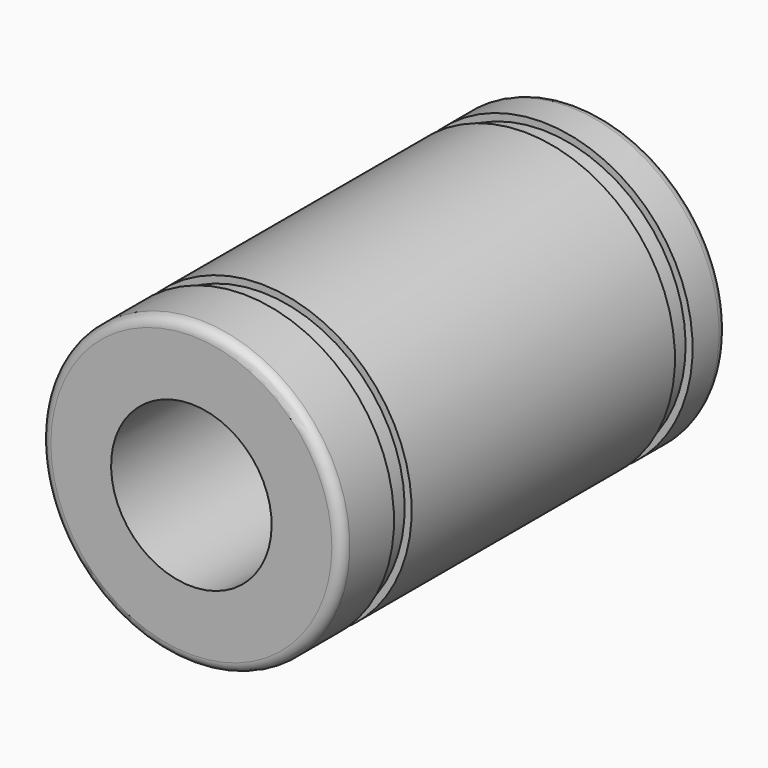
from build123d import *

# Parameters (mm, degrees)
F2_R = 0.5


with BuildPart() as f1:
    # F0 (on Right) → F1 (revolve)
    with BuildSketch(Plane.YZ):
        Polygon((-8.75, 7.5), (-12, 7.5), (-12, 4), (12, 4), (12, 7.5), (9.85, 7.5), (9.85, 7.15), (8.75, 7.15), (8.75, 7.5), (-7.65, 7.5), (-7.65, 7.15), (-8.75, 7.15), align=None)
    revolve(axis=Axis((0, 2.064935, 0), (0, 1, 0)))

    # F2
    f2_edges = [f1.edges().sort_by_distance(p)[0] for p in [
        (0, 12, -7.5),
        (0, -12, -7.5),
    ]]
    fillet(f2_edges, radius=F2_R)


solid = f1.part
